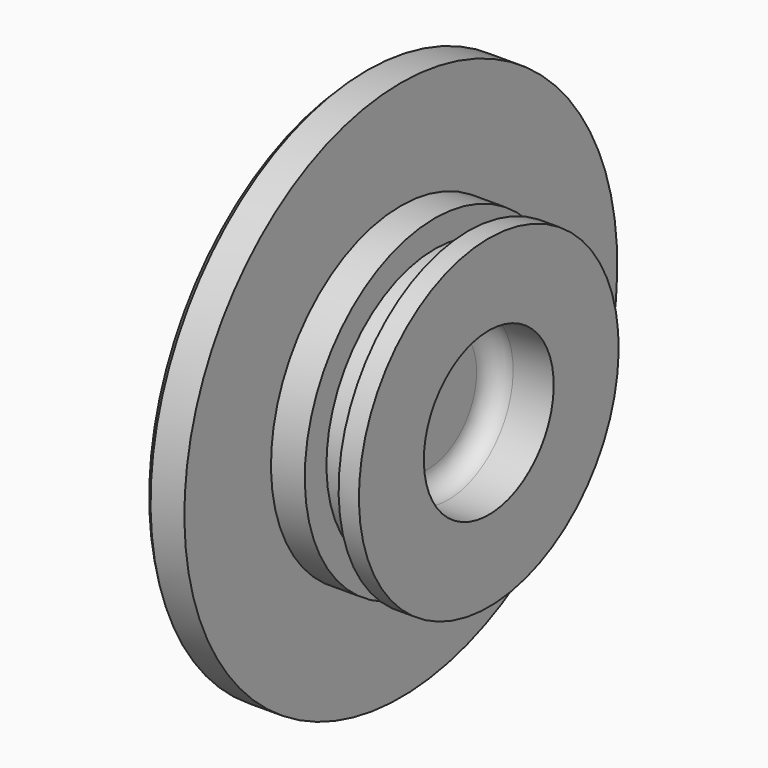
from build123d import *

# Parameters (mm, degrees)
F2_SIZE = 1
F3_R    = 3


with BuildPart() as f1:
    # F0 (on Front) → F1 (revolve)
    with BuildSketch(Plane.XZ):
        Polygon((0, 40), (0, 0), (10, 0), (10, 12), (19, 12), (19, 24), (16, 24), (16, 20), (11, 20), (11, 24), (6, 24), (6, 40), align=None)
    revolve(axis=Axis((9.5, 0, 0), (1, 0, 0)))

    # F2
    f2_edges = [f1.edges().sort_by_distance(p)[0] for p in [
        (0, 0, -40),
    ]]
    chamfer(f2_edges, length=F2_SIZE)

    # F3
    f3_edges = [f1.edges().sort_by_distance(p)[0] for p in [
        (10, 0, -12),
    ]]
    fillet(f3_edges, radius=F3_R)


solid = f1.part
